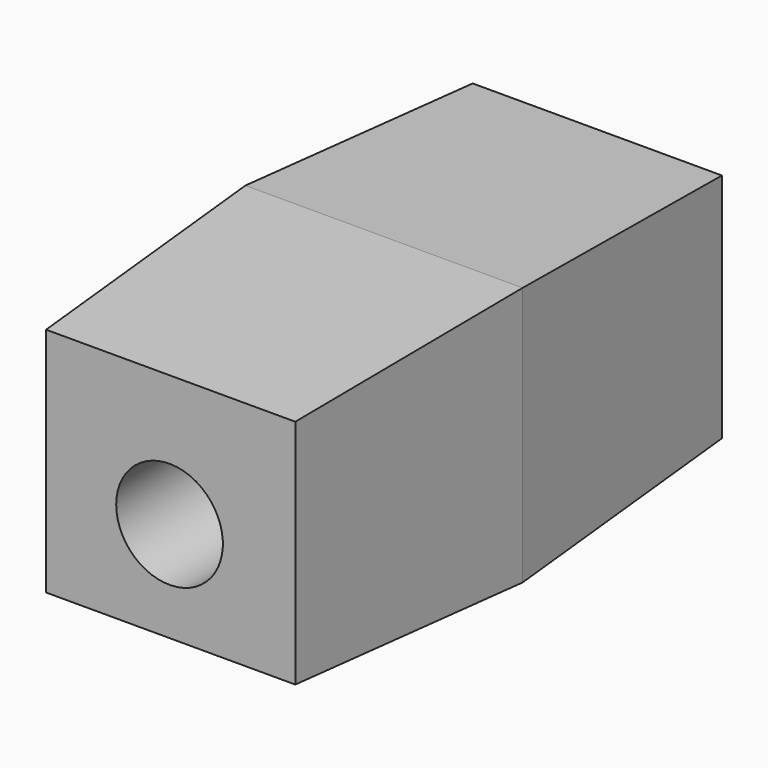
from build123d import *

# Parameters (mm, degrees)
F0_W          = 132.0179402828
F0_H          = 123.533681035
F1_DEPTH      = 127
F1_TAPER      = 3
F1_DEPTH_BACK = 127
F1_TAPER_BACK = 3
F3_D          = 50.8


with BuildPart() as f1:
    # F0 (on Front) → F1 (new body, two sides)
    with BuildSketch(Plane.XZ) as f1_sk:
        with Locations((0.5546957254, 7.3711946607)):
            Rectangle(F0_W, F0_H)
    extrude(amount=F1_DEPTH, taper=F1_TAPER)
    extrude(f1_sk.sketch, amount=-F1_DEPTH_BACK, taper=F1_TAPER_BACK)

    # F3 (through all)
    with Locations(Plane.XZ.offset(127)):
        with Locations((0, 0)):
            Hole(F3_D / 2)


solid = f1.part
